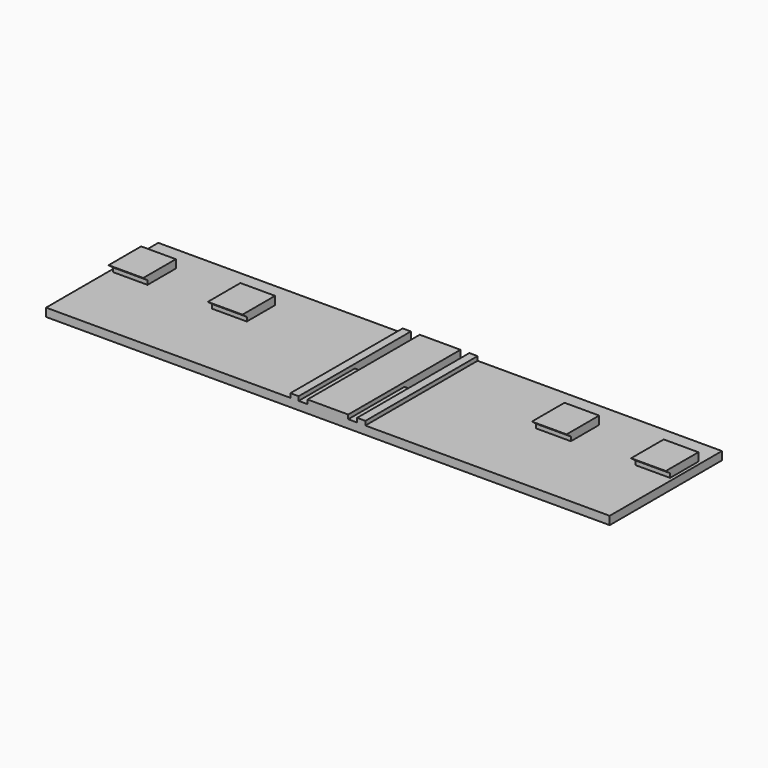
from build123d import *

# Parameters (mm, degrees)
F2_DEPTH  = 2
F3_W      = 8.4
F3_H      = 9.72
F4_DEPTH  = 2
F6_DEPTH  = 135.05
F7_DEPTH  = 19.271
F8_W      = 9.87
F8_H      = 34
F8_W_2    = 2
F9_DEPTH  = 1
F10_W     = 8.4
F10_H     = 1.15
F11_DEPTH = 2


with BuildPart() as f2:
    # F1 (on Top) → F2 (new body)
    with BuildSketch(Plane.XY):
        Polygon((-7.085, 9.87), (-68.3, 9.87), (-68.3, -24.13), (68.3, -24.13), (68.3, 9.87), (7.085, 9.87), (7.085, -7.13), (4.935, -7.13), (4.935, 9.87), (-4.935, 9.87), (-4.935, -7.13), (-7.085, -7.13), align=None)
    extrude(amount=F2_DEPTH)

    # F3 (on face) → F4 (join)
    with BuildSketch(Plane.XY.offset(2)):
        with Locations((-63.325, 0)):
            Rectangle(F3_W, F3_H)
        with Locations((-39.275, 0)):
            Rectangle(F3_W, F3_H)
        with Locations((39.275, 0)):
            Rectangle(F3_W, F3_H)
        with Locations((63.325, 0)):
            Rectangle(F3_W, F3_H)
    extrude(amount=F4_DEPTH)

    # F5 (on face) → F6 (join, through all)
    with BuildSketch(Plane(origin=(-67.525, 0, 0), x_dir=(0, -1, 0), z_dir=(-1, 0, 0))):
        Polygon((6.16, 4), (4.86, 4), (4.86, 3), align=None)
    extrude(amount=-F6_DEPTH)

    # F7 (cut, through all): faces of the model
    f7_faces = [f2.faces().sort_by_distance(p)[0] for p in [
        (-51.3, -4.86, 3.5),
        (0, -4.86, 3.5),
        (51.3, -4.86, 3.5),
    ]]
    extrude(f7_faces, amount=-F7_DEPTH, mode=Mode.SUBTRACT)

    # F8 (on face) → F9 (join)
    with BuildSketch(Plane.XY.offset(2)):
        with Locations((0, -7.13)):
            Rectangle(F8_W, F8_H)
        with Locations((-8.085, -7.13)):
            Rectangle(F8_W_2, F8_H)
        with Locations((8.085, -7.13)):
            Rectangle(F8_W_2, F8_H)
    extrude(amount=F9_DEPTH)

    # F10 (on face) → F11 (cut, through all)
    with BuildSketch(Plane.XY.offset(4)):
        with Locations((-63.325, 4.285)):
            Rectangle(F10_W, F10_H)
        with Locations((-39.275, 4.285)):
            Rectangle(F10_W, F10_H)
        with Locations((63.325, 4.285)):
            Rectangle(F10_W, F10_H)
        with Locations((39.275, 4.285)):
            Rectangle(F10_W, F10_H)
    extrude(amount=-F11_DEPTH, mode=Mode.SUBTRACT)


solid = f2.part
